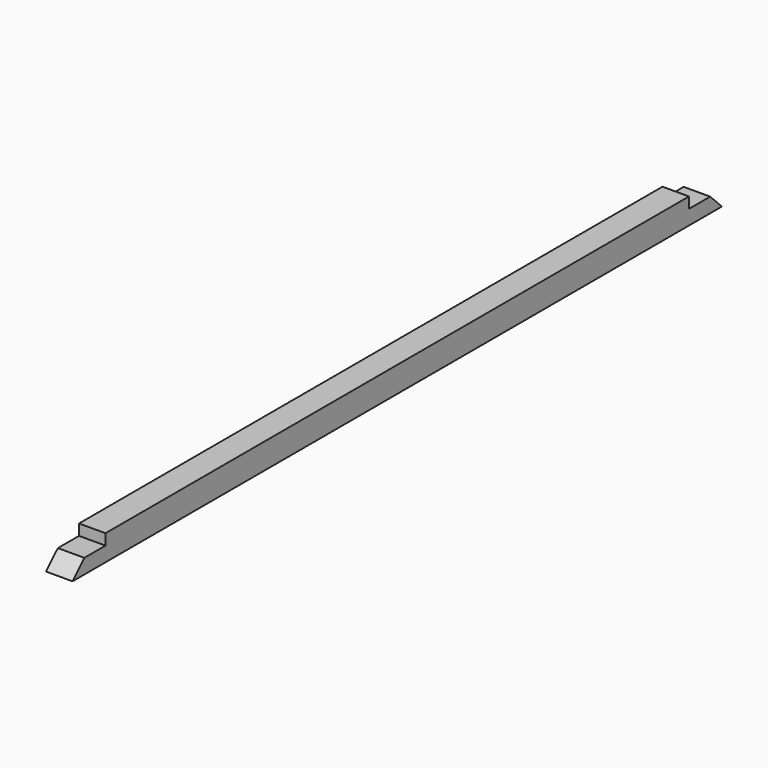
from build123d import *

# Parameters (mm, degrees)
F0_W      = 45
F0_H      = 25
F1_DEPTH  = 1380
F3_DEPTH  = 45
F5_DEPTH  = 45
F6_W      = 45
F6_H      = 18.5474166647
F7_DEPTH  = 1380
F9_DEPTH  = 45
F11_DEPTH = 45


with BuildPart() as f1:
    # F0 (on Front) → F1 (new body)
    with BuildSketch(Plane.XZ):
        Rectangle(F0_W, F0_H)
    extrude(amount=-F1_DEPTH)

    # F2 (on face) → F3 (cut)
    with BuildSketch(Plane.YZ.offset(22.5)):
        Polygon((0, 12.5), (0, -12.5), (25, 12.5), align=None)
    extrude(amount=-F3_DEPTH, mode=Mode.SUBTRACT)

    # F4 (on face) → F5 (cut)
    with BuildSketch(Plane(origin=(-22.5, 0, 0), x_dir=(0, -1, 0), z_dir=(-1, 0, 0))):
        Polygon((-1380, 12.5), (-1380, -12.5), (-1355, 12.5), align=None)
    extrude(amount=-F5_DEPTH, mode=Mode.SUBTRACT)

    # F6 (on Front) → F7 (join)
    with BuildSketch(Plane.XZ):
        with Locations((0, 21.7737083323)):
            Rectangle(F6_W, F6_H)
    extrude(amount=-F7_DEPTH)

    # F8 (on face) → F9 (cut)
    with BuildSketch(Plane.YZ.offset(22.5)):
        Polygon((70, 31.0474166647), (0, 31.0474166647), (0, 12.5), (25, 12.5), (70, 12.5), align=None)
    extrude(amount=-F9_DEPTH, mode=Mode.SUBTRACT)

    # F10 (on face) → F11 (cut)
    with BuildSketch(Plane.YZ.offset(22.5)):
        Polygon((1355, 12.5), (1380, 12.5), (1380, 31.0474166647), (1310, 31.0474166647), (1310, 12.5), align=None)
    extrude(amount=-F11_DEPTH, mode=Mode.SUBTRACT)


solid = f1.part
